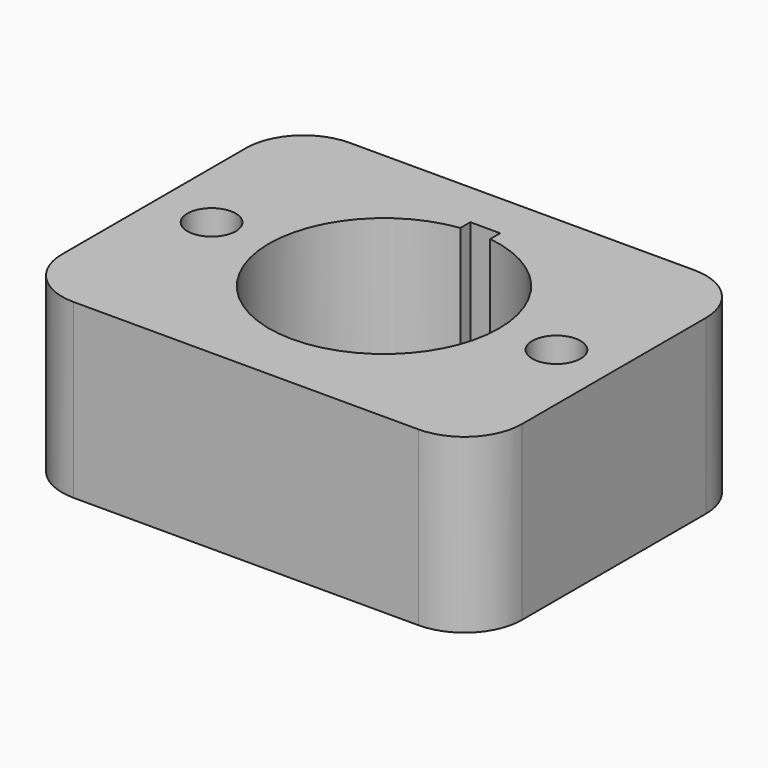
from build123d import *

# Parameters (mm, degrees)
F0_R     = 2.667
F1_DEPTH = 19.05


with BuildPart() as f1:
    # F0 (on Top) → F1 (new body)
    with BuildSketch(Plane.XY):
        with BuildLine():
            ThreePointArc((25.4, 12.7), (23.540128, 17.190128), (19.05, 19.05))
            Line((19.05, 19.05), (-19.05, 19.05))
            ThreePointArc((-19.05, 19.05), (-23.540128, 17.190128), (-25.4, 12.7))
            Line((-25.4, 12.7), (-25.4, -12.7))
            ThreePointArc((-25.4, -12.7), (-23.540128, -17.190128), (-19.05, -19.05))
            Line((-19.05, -19.05), (19.05, -19.05))
            ThreePointArc((19.05, -19.05), (23.540128, -17.190128), (25.4, -12.7))
            Line((25.4, -12.7), (25.4, 12.7))
        make_face()
        with Locations((-19.05, 0)):
            Circle(F0_R, mode=Mode.SUBTRACT)
        with BuildLine():
            ThreePointArc((1.662508, 12.590714), (9.54997, 8.371862), (12.7, 0))
            ThreePointArc((12.7, 0), (-8.380586, -9.542315), (-1.639492, 12.593731))
            Line((-1.639492, 12.593731), (-1.639492, 13.97))
            Line((-1.639492, 13.97), (0.011508, 13.97))
            Line((0.011508, 13.97), (1.662508, 13.97))
            Line((1.662508, 13.97), (1.662508, 12.590714))
        make_face(mode=Mode.SUBTRACT)
        with Locations((19.05, 0)):
            Circle(F0_R, mode=Mode.SUBTRACT)
    extrude(amount=F1_DEPTH)


solid = f1.part
